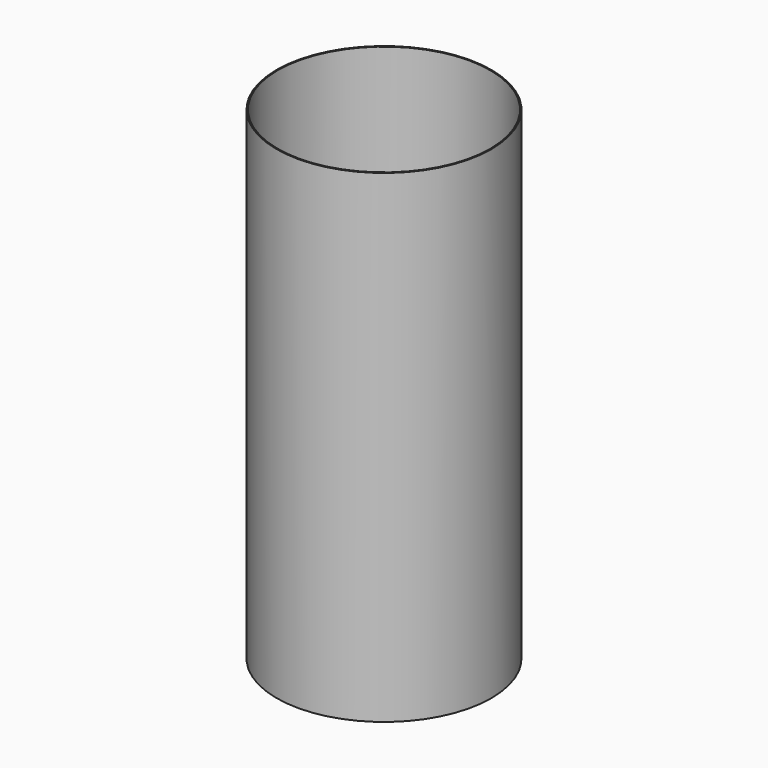
from build123d import *

# Parameters (mm, degrees)
F1_DEPTH = 609.6
F0_R     = 304.8
F0_R_2   = 301.625
F2_DEPTH = 1371.6


with BuildPart() as f1:
    # F0 (on Top) → F1 (new body)
    with BuildSketch(Plane.XY):
        with BuildLine():
            Line((127, 152.4), (-127, 152.4))
            ThreePointArc((-127, 152.4), (-144.960512, 144.960512), (-152.4, 127))
            Line((-152.4, 127), (-152.4, -127))
            ThreePointArc((-152.4, -127), (-144.960512, -144.960512), (-127, -152.4))
            Line((-127, -152.4), (127, -152.4))
            ThreePointArc((127, -152.4), (144.960512, -144.960512), (152.4, -127))
            Line((152.4, -127), (152.4, 127))
            ThreePointArc((152.4, 127), (144.960512, 144.960512), (127, 152.4))
        make_face()
        with BuildLine():
            ThreePointArc((127, -101.6), (119.560512, -119.560512), (101.6, -127))
            Line((101.6, -127), (-127, -127))
            Line((-127, -127), (-127, 127))
            Line((-127, 127), (101.6, 127))
            ThreePointArc((101.6, 127), (119.560512, 119.560512), (127, 101.6))
            Line((127, 101.6), (127, -101.6))
        make_face(mode=Mode.SUBTRACT)
    extrude(amount=F1_DEPTH)


with BuildPart() as f2:
    # F0 (on Top) → F2 (new body)
    with BuildSketch(Plane.XY):
        Circle(F0_R)
        Circle(F0_R_2, mode=Mode.SUBTRACT)
    extrude(amount=F2_DEPTH)


solid = Compound([f1.part, f2.part])
